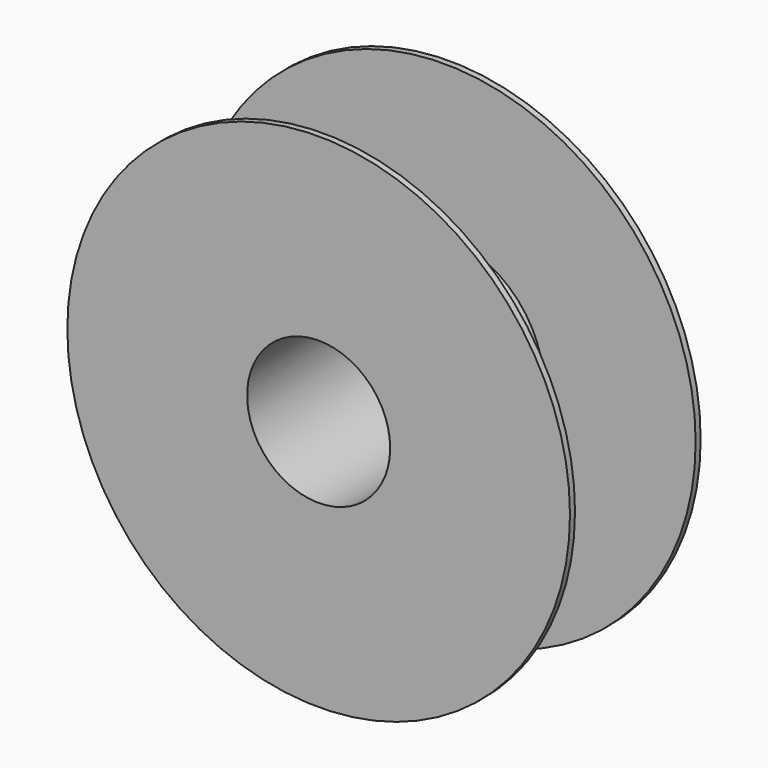
from build123d import *

# Parameters (mm, degrees)
SKETCH_R     = 100
PAD_DEPTH    = 2.5
SKETCH001_R  = 39.634074
PAD001_DEPTH = 60
SKETCH002_R  = 100
PAD002_DEPTH = 2.5
SKETCH003_R  = 28.45255
POCKET_DEPTH = 65.001


with BuildPart() as part:
    # Sketch → Pad (new body)
    with BuildSketch(Plane.XZ):
        Circle(SKETCH_R)
    extrude(amount=PAD_DEPTH)

    # Sketch001 → Pad001 (new body)
    with BuildSketch(Plane.XZ.offset(2.5)):
        Circle(SKETCH001_R)
    extrude(amount=PAD001_DEPTH)

    # Sketch002 → Pad002 (new body)
    with BuildSketch(Plane.XZ.offset(62.5)):
        Circle(SKETCH002_R)
    extrude(amount=PAD002_DEPTH)

    # Sketch003 → Pocket (cut, through all)
    with BuildSketch(Plane.XZ.offset(65)):
        Circle(SKETCH003_R)
    extrude(amount=-POCKET_DEPTH, mode=Mode.SUBTRACT)


solid = part.part
